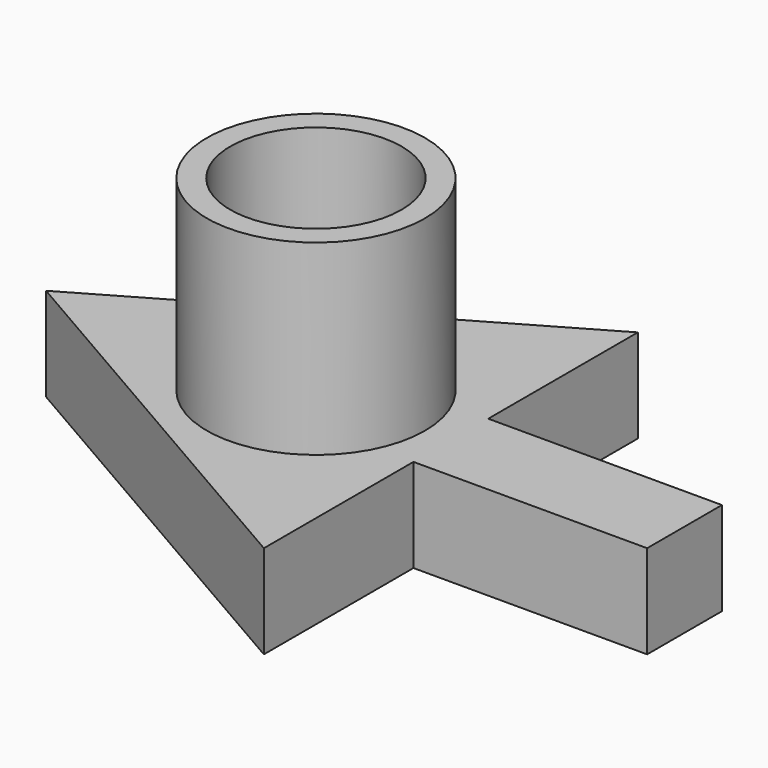
from build123d import *

# Parameters (mm, degrees)
F0_W     = 7.5
F0_H     = 3
F1_DEPTH = 3
F2_R     = 3.5
F2_R_2   = 2.75
F3_DEPTH = 6


with BuildPart() as f1:
    # F0 (on Top) → F1 (new body)
    with BuildSketch(Plane.XY):
        Polygon((4.3301270189, 1.5), (4.3301270189, 7.5), (-8.6602540378, 0), (4.3301270189, -7.5), (4.3301270189, -1.5), (-3.1698729811, -1.5), (-3.1698729811, 1.5), align=None)
        with Locations((8.0801270189, 0)):
            Rectangle(F0_W, F0_H)
        with Locations((0.5801270189, 0)):
            Rectangle(F0_W, F0_H)
    extrude(amount=F1_DEPTH)

    # F2 (on face) → F3 (join)
    with BuildSketch(Plane.XY.offset(3)):
        Circle(F2_R)
        Circle(F2_R_2, mode=Mode.SUBTRACT)
    extrude(amount=F3_DEPTH)


solid = f1.part
